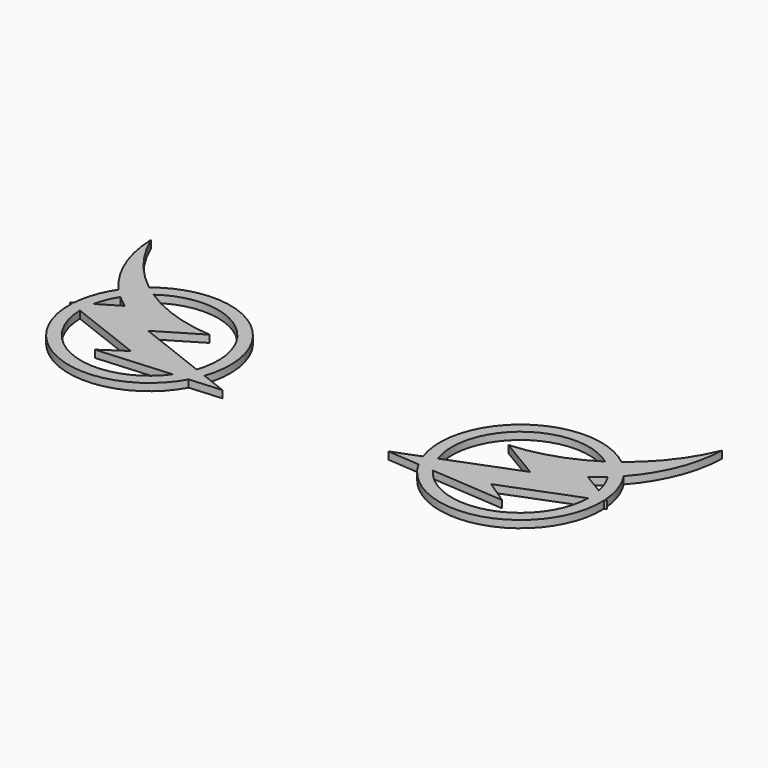
from build123d import *

# Parameters (mm, degrees)
F1_DEPTH = 2.286


with BuildPart() as f1:
    # F0 (on Top) → F1 (new body)
    with BuildSketch(Plane.XY):
        with BuildLine():
            ThreePointArc((-14.151137, 3.12794), (-23.146418, 12.164408), (-29.537588, 23.197347))
            ThreePointArc((-29.537588, 23.197347), (-26.67385, 9.473455), (-19.235755, -2.410189))
            ThreePointArc((-19.235755, -2.410189), (-22.166841, -8.270383), (-23.494955, -14.68671))
            Line((-23.494955, -14.68671), (-24.325447, -15.183814))
            Line((-24.325447, -15.183814), (-23.541831, -15.488469))
            ThreePointArc((-23.541831, -15.488469), (-5.130261, -40.917872), (23.855921, -28.85795))
            Line((23.855921, -28.85795), (33.889789, -28.126737))
            Line((33.889789, -28.126737), (25.62577, -24.913837))
            ThreePointArc((25.62577, -24.913837), (16.318953, 4.11697), (-14.151137, 3.12794))
        make_face()
        with BuildLine():
            Line((3.385204, -25.957212), (-3.952149, -30.884448))
            Line((-3.952149, -30.884448), (19.124659, -29.202738))
            ThreePointArc((19.124659, -29.202738), (-4.716031, -37.065924), (-19.751027, -16.962265))
            Line((-19.751027, -16.962265), (3.385204, -25.957212))
        make_face(mode=Mode.SUBTRACT)
        with BuildLine():
            ThreePointArc((-19.302198, -12.177071), (-18.203266, -8.546433), (-16.4832, -5.165523))
            ThreePointArc((-16.4832, -5.165523), (-14.628897, -6.747939), (-12.681336, -8.214052))
            Line((-12.681336, -8.214052), (-19.302198, -12.177071))
        make_face(mode=Mode.SUBTRACT)
        with BuildLine():
            Line((0, -14.951002), (13.053741, -7.137484))
            ThreePointArc((13.053741, -7.137484), (0.559608, -4.711412), (-10.904191, 0.817648))
            ThreePointArc((-10.904191, 0.817648), (14.506792, 0.726552), (22.072211, -23.532277))
            Line((22.072211, -23.532277), (0, -14.951002))
        make_face(mode=Mode.SUBTRACT)
        with BuildLine():
            ThreePointArc((133.828345, 3.12794), (103.358255, 4.11697), (94.051438, -24.913837))
            Line((94.051438, -24.913837), (85.787419, -28.126737))
            Line((85.787419, -28.126737), (95.821288, -28.85795))
            ThreePointArc((95.821288, -28.85795), (124.807469, -40.917872), (143.219039, -15.488469))
            Line((143.219039, -15.488469), (144.002655, -15.183814))
            Line((144.002655, -15.183814), (143.172164, -14.68671))
            ThreePointArc((143.172164, -14.68671), (141.844049, -8.270383), (138.912963, -2.410189))
            ThreePointArc((138.912963, -2.410189), (146.351058, 9.473455), (149.214797, 23.197347))
            ThreePointArc((149.214797, 23.197347), (142.823626, 12.164408), (133.828345, 3.12794))
        make_face()
        with BuildLine():
            Line((116.292004, -25.957212), (139.428235, -16.962265))
            ThreePointArc((139.428235, -16.962265), (124.39324, -37.065924), (100.55255, -29.202738))
            Line((100.55255, -29.202738), (123.629357, -30.884448))
            Line((123.629357, -30.884448), (116.292004, -25.957212))
        make_face(mode=Mode.SUBTRACT)
        with BuildLine():
            Line((119.677208, -14.951002), (97.604997, -23.532277))
            ThreePointArc((97.604997, -23.532277), (105.170417, 0.726552), (130.5814, 0.817648))
            ThreePointArc((130.5814, 0.817648), (119.117601, -4.711412), (106.623467, -7.137484))
            Line((106.623467, -7.137484), (119.677208, -14.951002))
        make_face(mode=Mode.SUBTRACT)
        with BuildLine():
            ThreePointArc((136.160409, -5.165523), (137.880474, -8.546433), (138.979407, -12.177071))
            Line((138.979407, -12.177071), (132.358544, -8.214052))
            ThreePointArc((132.358544, -8.214052), (134.306105, -6.747939), (136.160409, -5.165523))
        make_face(mode=Mode.SUBTRACT)
    extrude(amount=F1_DEPTH)


solid = f1.part
